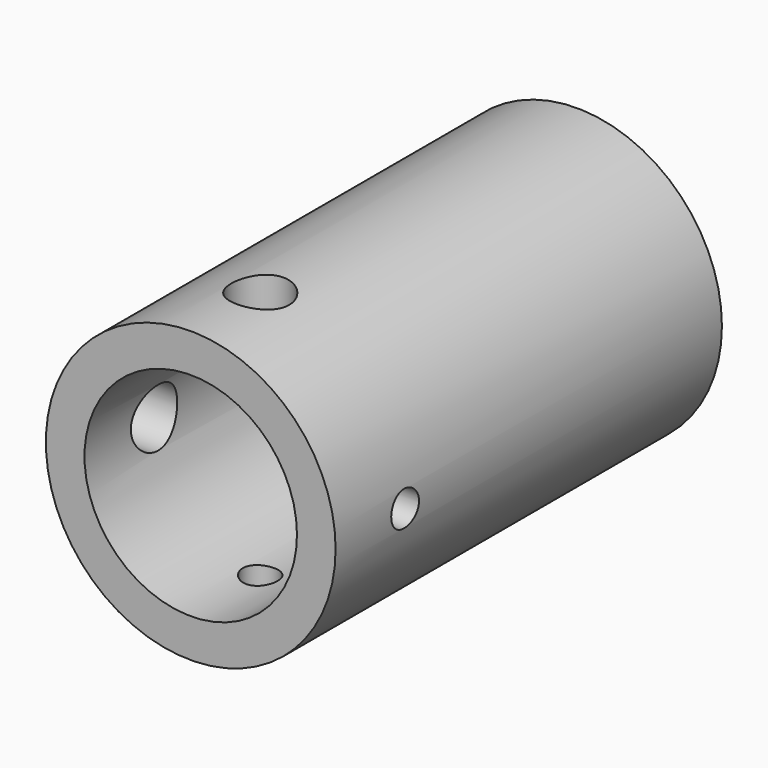
from build123d import *

# Parameters (mm, degrees)
F0_R      = 7.5
F1_DEPTH  = 25
F2_R      = 5.5
F3_DEPTH  = 20
F4_R      = 1.5
F5_DEPTH  = 5
F6_R      = 1.5
F7_DEPTH  = 7.501
F8_R      = 0.9
F9_DEPTH  = 7.501
F10_R     = 1.5
F11_DEPTH = 7.501
F12_R     = 0.9
F13_DEPTH = 7.501


with BuildPart() as f1:
    # F0 (on Front) → F1 (new body)
    with BuildSketch(Plane.XZ):
        Circle(F0_R)
    extrude(amount=F1_DEPTH)

    # F2 (on face) → F3 (cut)
    with BuildSketch(Plane.XZ.offset(25)):
        Circle(F2_R)
    extrude(amount=-F3_DEPTH, mode=Mode.SUBTRACT)

    # F4 (on face) → F5 (cut, through all)
    with BuildSketch(Plane.XZ.offset(5)):
        Circle(F4_R)
    extrude(amount=-F5_DEPTH, mode=Mode.SUBTRACT)

    # F6 (on Top) → F7 (cut, through all)
    with BuildSketch(Plane.XY):
        with Locations((0, -20.5)):
            Circle(F6_R)
    extrude(amount=F7_DEPTH, mode=Mode.SUBTRACT)

    # F8 (on Top) → F9 (cut, through all)
    with BuildSketch(Plane.XY):
        with Locations((0, -20.5)):
            Circle(F8_R)
    extrude(amount=-F9_DEPTH, mode=Mode.SUBTRACT)

    # F10 (on Right) → F11 (cut, through all)
    with BuildSketch(Plane.YZ):
        with Locations((-20.5, 0)):
            Circle(F10_R)
    extrude(amount=-F11_DEPTH, mode=Mode.SUBTRACT)

    # F12 (on Right) → F13 (cut, through all)
    with BuildSketch(Plane.YZ):
        with Locations((-20.5, 0)):
            Circle(F12_R)
    extrude(amount=F13_DEPTH, mode=Mode.SUBTRACT)


solid = f1.part
